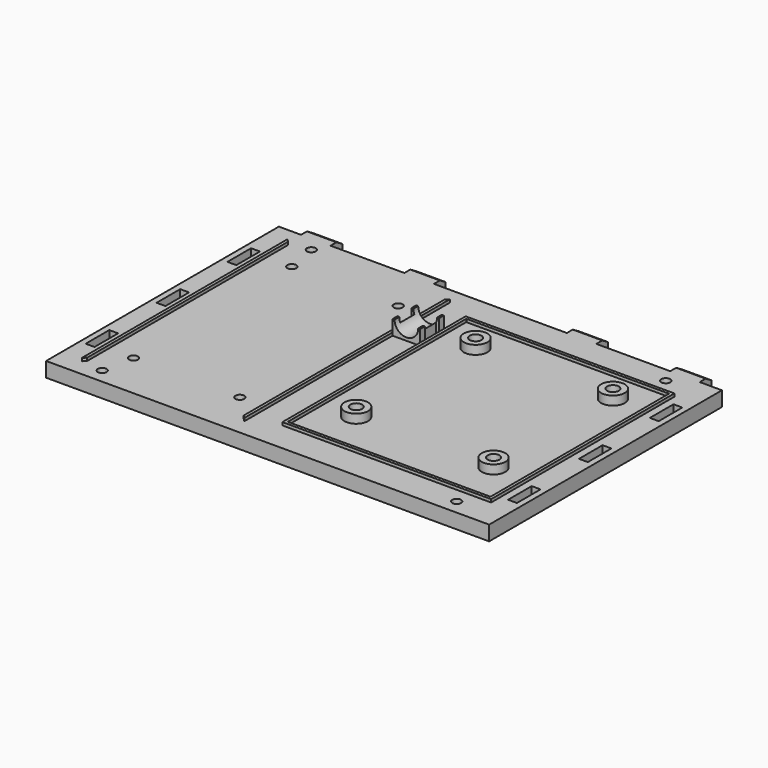
from build123d import *

# Parameters (mm, degrees)
F0_W      = 150
F0_H      = 98.5
F1_DEPTH  = 5
F3_W      = 70.65
F3_H      = 77.55
F3_W_2    = 68.65
F3_H_2    = 75.55
F4_DEPTH  = 1
F5_R      = 4
F5_R_2    = 2
F6_DEPTH  = 3
F7_R      = 1.5
F8_DEPTH  = 12.5
F9_R      = 2.75
F10_DEPTH = 2.5
F11_W     = 3
F11_H     = 10
F12_DEPTH = 25
F14_DEPTH = 5
F15_R     = 4
F16_DEPTH = 25
F13_W     = 1
F13_H     = 6
F17_DEPTH = 25
F18_W     = 9.35
F18_H     = 6
F19_DEPTH = 2
F20_W     = 10
F20_H     = 3
F21_DEPTH = 5
F23_DEPTH = 200


with BuildPart() as f1:
    # F0 (on Top) → F1 (new body)
    with BuildSketch(Plane.XY):
        Rectangle(F0_W, F0_H)
    extrude(amount=F1_DEPTH)

    # F3 (on face) → F4 (join)
    with BuildSketch(Plane.XY.offset(5)):
        Polygon((-66.5, -42.5), (-66.5, 42.5), (-67.5, 43.5), (-67.5, -43.5), align=None)
        Polygon((-12.5, 43.5), (-13.5, 42.5), (-13.5, -42.5), (-12.5, -43.5), align=None)
        with Locations((32.175, -0.275)):
            Rectangle(F3_W, F3_H)
        with Locations((32.175, -0.275)):
            Rectangle(F3_W_2, F3_H_2, mode=Mode.SUBTRACT)
    extrude(amount=F4_DEPTH)

    # F5 (on face) → F6 (join)
    with BuildSketch(Plane.XY.offset(5)):
        with Locations((9, 27.5)):
            Circle(F5_R)
        with Locations((9, 27.5)):
            Circle(F5_R_2, mode=Mode.SUBTRACT)
        with Locations((55.5, 27.5)):
            Circle(F5_R)
        with Locations((55.5, 27.5)):
            Circle(F5_R_2, mode=Mode.SUBTRACT)
        with Locations((55.5, -23)):
            Circle(F5_R)
        with Locations((55.5, -23)):
            Circle(F5_R_2, mode=Mode.SUBTRACT)
        with Locations((9, -23)):
            Circle(F5_R)
        with Locations((9, -23)):
            Circle(F5_R_2, mode=Mode.SUBTRACT)
    extrude(amount=F6_DEPTH)

    # F7 (on face) → F8 (cut, symmetric)
    with BuildSketch(Plane.XY.offset(5)):
        with Locations((9, 27.5)):
            Circle(F7_R)
        with Locations((55.5, 27.5)):
            Circle(F7_R)
        with Locations((9, -23)):
            Circle(F7_R)
        with Locations((55.5, -23)):
            Circle(F7_R)
        with Locations((-58, 33.5)):
            Circle(F7_R)
        with Locations((-22, 33.5)):
            Circle(F7_R)
        with Locations((-58, -33.5)):
            Circle(F7_R)
        with Locations((-22, -33.5)):
            Circle(F7_R)
        with Locations((-60, -44.25)):
            Circle(F7_R)
        with Locations((60, -44.25)):
            Circle(F7_R)
        with Locations((60, 44.25)):
            Circle(F7_R)
        with Locations((-60, 44.25)):
            Circle(F7_R)
    extrude(amount=F8_DEPTH, both=True, mode=Mode.SUBTRACT)

    # F9 (on face) → F10 (cut)
    with BuildSketch(Plane(origin=(0, 0, 0), x_dir=(1, 0, 0), z_dir=(0, 0, -1))):
        with Locations((9, 23)):
            Circle(F9_R)
        with Locations((55.5, 23)):
            Circle(F9_R)
        with Locations((9, -27.5)):
            Circle(F9_R)
        with Locations((55.5, -27.5)):
            Circle(F9_R)
        with Locations((-22, -33.5)):
            Circle(F9_R)
        with Locations((-58, -33.5)):
            Circle(F9_R)
        with Locations((-22, 33.5)):
            Circle(F9_R)
        with Locations((-58, 33.5)):
            Circle(F9_R)
        with Locations((-60, -44.25)):
            Circle(F9_R)
        with Locations((60, -44.25)):
            Circle(F9_R)
        with Locations((-60, 44.25)):
            Circle(F9_R)
        with Locations((60, 44.25)):
            Circle(F9_R)
    extrude(amount=-F10_DEPTH, mode=Mode.SUBTRACT)

    # F11 (on face) → F12 (cut)
    with BuildSketch(Plane.XY.offset(5)):
        with Locations((-71.5, 30)):
            Rectangle(F11_W, F11_H)
        with Locations((-71.5, 0)):
            Rectangle(F11_W, F11_H)
        with Locations((-71.5, -30)):
            Rectangle(F11_W, F11_H)
        with Locations((71.5, -30)):
            Rectangle(F11_W, F11_H)
        with Locations((71.5, 30)):
            Rectangle(F11_W, F11_H)
        with Locations((71.5, 0)):
            Rectangle(F11_W, F11_H)
    extrude(amount=-F12_DEPTH, mode=Mode.SUBTRACT)

    # F13 (on face) → F14 (join)
    with BuildSketch(Plane.XY.offset(5)):
        Polygon((-7.825, 29.25), (-12.5, 29.25), (-12.5, 27.25), (-11.5, 27.25), (-11.5, 21.25), (-12.5, 21.25), (-12.5, 19.25), (-7.825, 19.25), align=None)
        Polygon((-3.15, 29.25), (-7.825, 29.25), (-7.825, 19.25), (-3.15, 19.25), (-3.15, 21.25), (-4.15, 21.25), (-4.15, 27.25), (-3.15, 27.25), align=None)
    extrude(amount=F14_DEPTH)

    # F15 (on face) → F16 (cut)
    with BuildSketch(Plane.XZ.offset(-19.25)):
        with Locations((-7.825, 10)):
            Circle(F15_R)
    extrude(amount=-F16_DEPTH, mode=Mode.SUBTRACT)

    # F13 (on face) → F17 (cut)
    with BuildSketch(Plane.XY.offset(5)):
        with Locations((-12, 24.25)):
            Rectangle(F13_W, F13_H)
        with Locations((-3.65, 24.25)):
            Rectangle(F13_W, F13_H)
    extrude(amount=-F17_DEPTH, mode=Mode.SUBTRACT)

    # F18 (on face) → F19 (cut)
    with BuildSketch(Plane(origin=(0, 0, 0), x_dir=(1, 0, 0), z_dir=(0, 0, -1))):
        with Locations((-7.825, -24.25)):
            Rectangle(F18_W, F18_H)
    extrude(amount=-F19_DEPTH, mode=Mode.SUBTRACT)

    # F20 (on face) → F21 (join)
    with BuildSketch(Plane(origin=(0, 49.25, 0), x_dir=(-1, 0, 0), z_dir=(0, 1, 0))):
        with Locations((-62.5, 3.5)):
            Rectangle(F20_W, F20_H)
        with Locations((-27.5, 3.5)):
            Rectangle(F20_W, F20_H)
        with Locations((27.5, 3.5)):
            Rectangle(F20_W, F20_H)
        with Locations((62.5, 3.5)):
            Rectangle(F20_W, F20_H)
    extrude(amount=F21_DEPTH)

    # F22 (on face) → F23 (cut)
    with BuildSketch(Plane(origin=(-67.5, 0, 0), x_dir=(0, -1, 0), z_dir=(-1, 0, 0))):
        Polygon((-54.25, 5), (-54.25, 3.5), (-51.75, 5), align=None)
    extrude(amount=-F23_DEPTH, mode=Mode.SUBTRACT)


solid = f1.part
